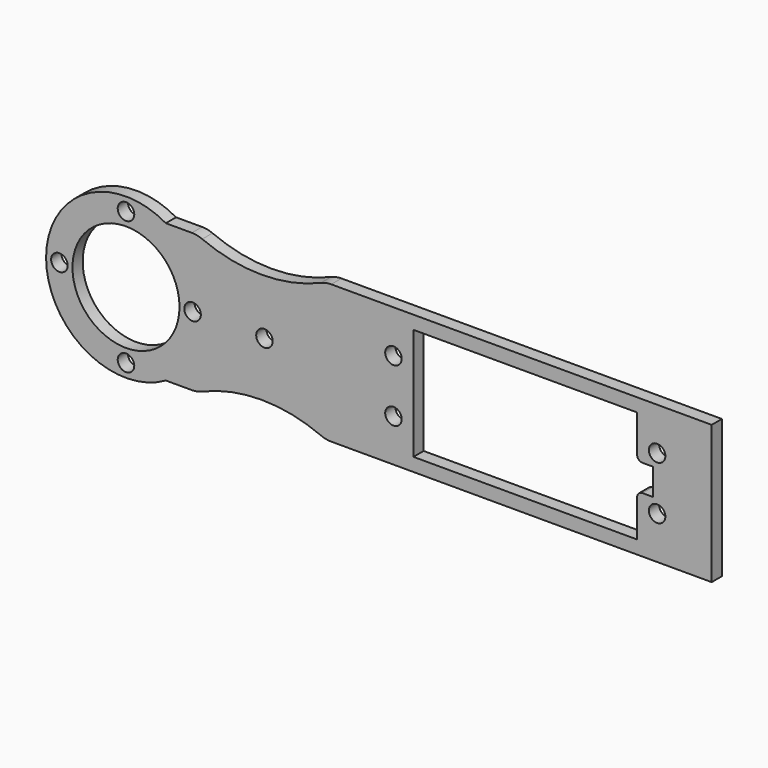
from build123d import *

# Parameters (mm, degrees)
F0_W     = 69.999946
F0_H     = 26
F0_R     = 1.55
F0_R_2   = 10.05
F1_DEPTH = 2.4
F2_R     = 1


with BuildPart() as f1:
    # F0 (on Front) → F1 (new body)
    with BuildSketch(Plane.XZ):
        with Locations((-88.745977, 31.929744)):
            Rectangle(F0_W, F0_H)
        with BuildLine():
            ThreePointArc((-112.569937, 25.684989), (-114.74146, 26.005361), (-114.415146, 28.175999))
            ThreePointArc((-114.415146, 28.175999), (-112.793726, 28.318267), (-111.939133, 26.933019))
            ThreePointArc((-111.939133, 26.933019), (-112.105794, 26.233825), (-112.569937, 25.684989))
        make_face(mode=Mode.SUBTRACT)
        with Locations((-63.99595, 26.927969)):
            Circle(F0_R, mode=Mode.SUBTRACT)
        Polygon((-109.746004, 21.429744), (-109.746004, 42.429744), (-67.746004, 42.429744), (-67.746004, 34.429744), (-64.746004, 34.429744), (-64.746004, 29.429744), (-67.746004, 29.429744), (-67.746004, 21.429744), align=None, mode=Mode.SUBTRACT)
        with BuildLine():
            ThreePointArc((-112.569991, 35.684989), (-114.741514, 36.005361), (-114.415199, 38.175999))
            ThreePointArc((-114.415199, 38.175999), (-112.79378, 38.318267), (-111.939186, 36.933019))
            ThreePointArc((-111.939186, 36.933019), (-112.105847, 36.233825), (-112.569991, 35.684989))
        make_face(mode=Mode.SUBTRACT)
        with Locations((-63.996004, 36.927969)):
            Circle(F0_R, mode=Mode.SUBTRACT)
        with BuildLine():
            Line((-123.74595, 18.929744), (-123.74595, 44.929744))
            Line((-123.74595, 44.929744), (-125.174, 44.929744))
            ThreePointArc((-125.174, 44.929744), (-126.170866, 44.829362), (-127.127705, 44.532247))
            ThreePointArc((-127.127705, 44.532247), (-138.260543, 42.267185), (-149.393382, 44.532247))
            ThreePointArc((-149.393382, 44.532247), (-150.350221, 44.829362), (-151.347086, 44.929744))
            Line((-151.347086, 44.929744), (-156.228635, 44.929744))
            ThreePointArc((-156.228635, 44.929744), (-178.71195, 31.929744), (-156.228635, 18.929744))
            Line((-156.228635, 18.929744), (-151.347086, 18.929744))
            ThreePointArc((-151.347086, 18.929744), (-150.350221, 19.030126), (-149.393382, 19.32724))
            ThreePointArc((-149.393382, 19.32724), (-138.260543, 21.592303), (-127.127705, 19.32724))
            ThreePointArc((-127.127705, 19.32724), (-126.170866, 19.030126), (-125.174, 18.929744))
            Line((-125.174, 18.929744), (-123.74595, 18.929744))
        make_face()
        with BuildLine():
            ThreePointArc((-162.785937, 18.186764), (-164.95746, 18.507136), (-164.631146, 20.677774))
            ThreePointArc((-164.631146, 20.677774), (-163.009726, 20.820041), (-162.155133, 19.434794))
            ThreePointArc((-162.155133, 19.434794), (-162.321794, 18.735599), (-162.785937, 18.186764))
        make_face(mode=Mode.SUBTRACT)
        with BuildLine():
            ThreePointArc((-175.285937, 30.686764), (-177.45746, 31.007136), (-177.131146, 33.177774))
            ThreePointArc((-177.131146, 33.177774), (-175.509726, 33.320041), (-174.655133, 31.934794))
            ThreePointArc((-174.655133, 31.934794), (-174.821794, 31.235599), (-175.285937, 30.686764))
        make_face(mode=Mode.SUBTRACT)
        with Locations((-163.71195, 31.929744)):
            Circle(F0_R_2, mode=Mode.SUBTRACT)
        with BuildLine():
            ThreePointArc((-150.285937, 30.686764), (-152.45746, 31.007136), (-152.131146, 33.177774))
            ThreePointArc((-152.131146, 33.177774), (-150.509726, 33.320041), (-149.655133, 31.934794))
            ThreePointArc((-149.655133, 31.934794), (-149.821794, 31.235599), (-150.285937, 30.686764))
        make_face(mode=Mode.SUBTRACT)
        with Locations((-137.71195, 31.929744)):
            Circle(F0_R, mode=Mode.SUBTRACT)
        with BuildLine():
            ThreePointArc((-162.785937, 43.186764), (-164.95746, 43.507136), (-164.631146, 45.677774))
            ThreePointArc((-164.631146, 45.677774), (-163.009726, 45.820041), (-162.155133, 44.434794))
            ThreePointArc((-162.155133, 44.434794), (-162.321794, 43.735599), (-162.785937, 43.186764))
        make_face(mode=Mode.SUBTRACT)
    extrude(amount=F1_DEPTH)

    # F2
    f2_edges = [f1.edges().sort_by_distance(p)[0] for p in [
        (-67.746004, -1.2, 34.429744),
        (-67.746004, -1.2, 29.429744),
    ]]
    fillet(f2_edges, radius=F2_R)


solid = f1.part
